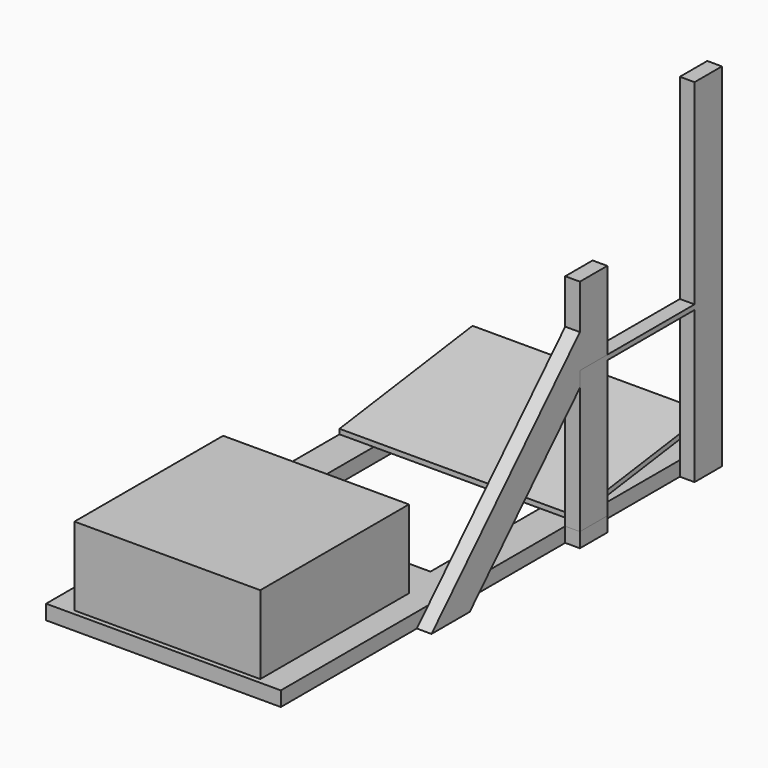
from build123d import *

# Parameters (mm, degrees)
F0_W      = 431.8
F0_H      = 88.9
F1_DEPTH  = 38.1
F3_DEPTH  = 431.8
F4_DEPTH  = 88.9
F5_DEPTH  = 88.9
F6_W      = 482.6
F6_H      = 482.6
F7_DEPTH  = 203.2
F6_W_2    = 609.6
F6_H_2    = 508
F8_DEPTH  = 38.1
F9_W      = 283.2469639567
F9_H      = 12.7
F9_W_2    = 88.9
F9_H_2    = 355.6
F9_H_3    = 508
F9_H_4    = 38.1
F10_DEPTH = 38.1
F11_DEPTH = 38.1


with BuildPart() as f1:
    # F0 (on Top) → F1 (new body)
    with BuildSketch(Plane.XY):
        Polygon((0, 88.9), (0, 0), (609.6, 0), (609.6, 88.9), (520.7, 88.9), (88.9, 88.9), align=None)
        Polygon((0, 876.3), (0, 88.9), (88.9, 88.9), (88.9, 444.5), (88.9, 787.4), (88.9, 876.3), align=None)
        Polygon((520.7, 88.9), (609.6, 88.9), (609.6, 876.3), (520.7, 876.3), (520.7, 787.4), (520.7, 444.5), align=None)
        with Locations((304.8, 831.85)):
            Rectangle(F0_W, F0_H)
    extrude(amount=-F1_DEPTH)



with BuildPart() as f3:
    # F2 (on face) → F3 (new body)
    with BuildSketch(Plane(origin=(520.7, 0, 0), x_dir=(0, -1, 0), z_dir=(-1, 0, 0))):
        Polygon((-876.3, 59.839021205), (-444.5, 0), (-444.5, 12.7), (-876.3, 72.539021205), align=None)
    extrude(amount=F3_DEPTH)


with BuildPart() as f1_1:
    add(f1.part)
    # F4 (add): a face of the model
    f4_faces = [f3.part.faces().sort_by_distance(p)[0] for p in [
        (520.7, 660.4, 36.2695106025),
    ]]

    add(f3.part)  # F4 merges F3
    extrude(f4_faces, amount=F4_DEPTH)

    # F5 (add): a face of the model
    f5_faces = [f1_1.faces().sort_by_distance(p)[0] for p in [
        (88.9, 660.4, 36.2695106025),
    ]]
    extrude(f5_faces, amount=F5_DEPTH)



with BuildPart() as f7:
    # F6 (on Top) → F7 (new body)
    with BuildSketch(Plane.XY):
        with Locations((304.8, -254)):
            Rectangle(F6_W, F6_H)
    extrude(amount=F7_DEPTH)


with BuildPart() as f1_2:
    add(f1_1.part)

    add(f7.part)  # F8 merges F7
    # F6 (on Top) → F8 (join)
    with BuildSketch(Plane.XY):
        with Locations((304.8, -254)):
            Rectangle(F6_W_2, F6_H_2)
        with Locations((304.8, -254)):
            Rectangle(F6_W, F6_H, mode=Mode.SUBTRACT)
    extrude(amount=-F8_DEPTH)


with BuildPart() as f10:
    # F9 (on face) → F10 (new body)
    with BuildSketch(Plane.YZ.offset(609.6)):
        with Locations((645.7765180217, 361.95)):
            Rectangle(F9_W, F9_H)
        with Locations((831.85, 177.8)):
            Rectangle(F9_W_2, F9_H_2)
        with Locations((831.85, 622.3)):
            Rectangle(F9_W_2, F9_H_3)
        with Locations((459.7030360433, 361.95)):
            Rectangle(F9_W_2, F9_H)
        Polygon((415.2530360433, -38.1), (504.1530360433, -38.1), (504.1530360433, 0), (444.5, 0), (415.2530360433, 0), align=None)
        Polygon((444.5, 0), (504.1530360433, 0), (504.1530360433, 355.6), (415.2530360433, 355.6), (415.2530360433, 328.8526361537), (415.2530360433, 0), align=None)
        Polygon((415.2530360433, 368.3), (504.1530360433, 368.3), (504.1530360433, 571.5), (415.2530360433, 571.5), (415.2530360433, 456.2355163903), align=None)
        with Locations((831.85, -19.05)):
            Rectangle(F9_W_2, F9_H_4)
        Polygon((415.2530360433, 328.8526361537), (415.2530360433, 355.6), (415.2530360433, 368.3), (415.2530360433, 456.2355163903), (-29.3229442363, 0), (94.804544347, 0), align=None)
        with Locations((831.85, 361.95)):
            Rectangle(F9_W_2, F9_H)
        Polygon((-66.4492622018, -38.1), (57.6782263815, -38.1), (94.804544347, 0), (-29.3229442363, 0), align=None)
    extrude(amount=F10_DEPTH)


with BuildPart() as f11:
    # F9 (on face) → F11 (new body)
    with BuildSketch(Plane.YZ.offset(609.6)):
        Polygon((415.2530360433, 328.8526361537), (415.2530360433, 355.6), (415.2530360433, 368.3), (415.2530360433, 456.2355163903), (-29.3229442363, 0), (94.804544347, 0), align=None)
        Polygon((-66.4492622018, -38.1), (57.6782263815, -38.1), (94.804544347, 0), (-29.3229442363, 0), align=None)
        Polygon((415.2530360433, 368.3), (504.1530360433, 368.3), (504.1530360433, 571.5), (415.2530360433, 571.5), (415.2530360433, 456.2355163903), align=None)
    extrude(amount=F11_DEPTH)


with BuildPart() as f11b:
    # F9 (on face) → F11, piece 2 (new body)
    with BuildSketch(Plane.YZ.offset(609.6)):
        Polygon((415.2530360433, -38.1), (504.1530360433, -38.1), (504.1530360433, 0), (444.5, 0), (415.2530360433, 0), align=None)
    extrude(amount=F11_DEPTH)


solid = Compound([f1_2.part, f10.part, f11.part, f11b.part])
